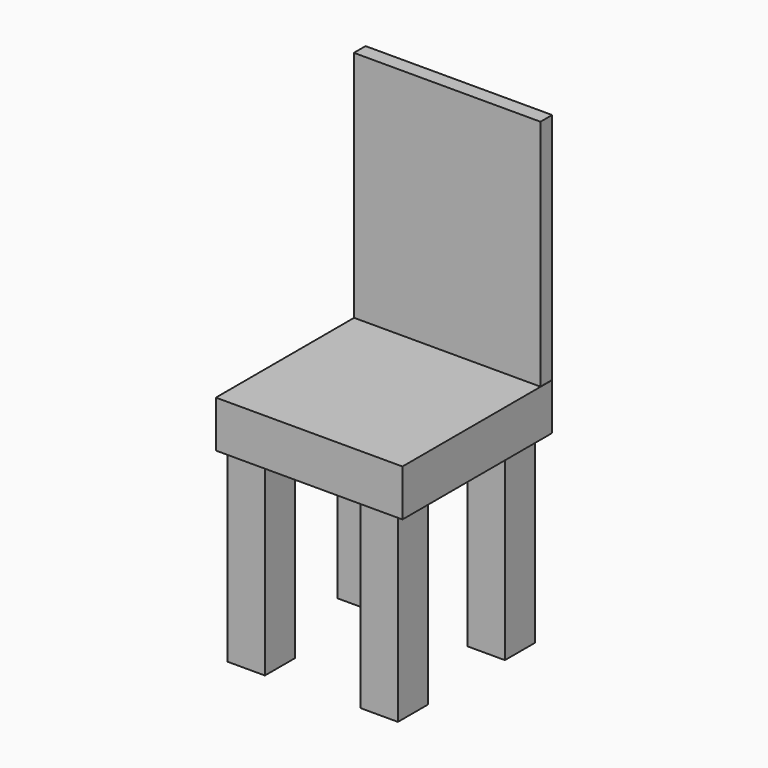
from build123d import *

# Parameters (mm, degrees)
F0_W     = 100
F0_H     = 100
F1_DEPTH = 25
F2_W     = 20
F2_H     = 20
F3_DEPTH = 100
F4_W     = 100
F4_H     = 7.817208
F5_DEPTH = 150


with BuildPart() as f1:
    # F0 (on Top) → F1 (new body)
    with BuildSketch(Plane.XY):
        with Locations((0.650306, -2.683234)):
            Rectangle(F0_W, F0_H)
    extrude(amount=F1_DEPTH)

    # F2 (on Top) → F3 (join)
    with BuildSketch(Plane.XY):
        with Locations((33.802878, 34.537725)):
            Rectangle(F2_W, F2_H)
        with Locations((33.802878, -37.14768)):
            Rectangle(F2_W, F2_H)
        with Locations((-35.945089, 34.537725)):
            Rectangle(F2_W, F2_H)
        with Locations((-35.945089, -39.085125)):
            Rectangle(F2_W, F2_H)
    extrude(amount=-F3_DEPTH)

    # F4 (on Top) → F5 (join)
    with BuildSketch(Plane.XY):
        with Locations((0.545476, 43.83298)):
            Rectangle(F4_W, F4_H)
    extrude(amount=F5_DEPTH)


solid = f1.part
